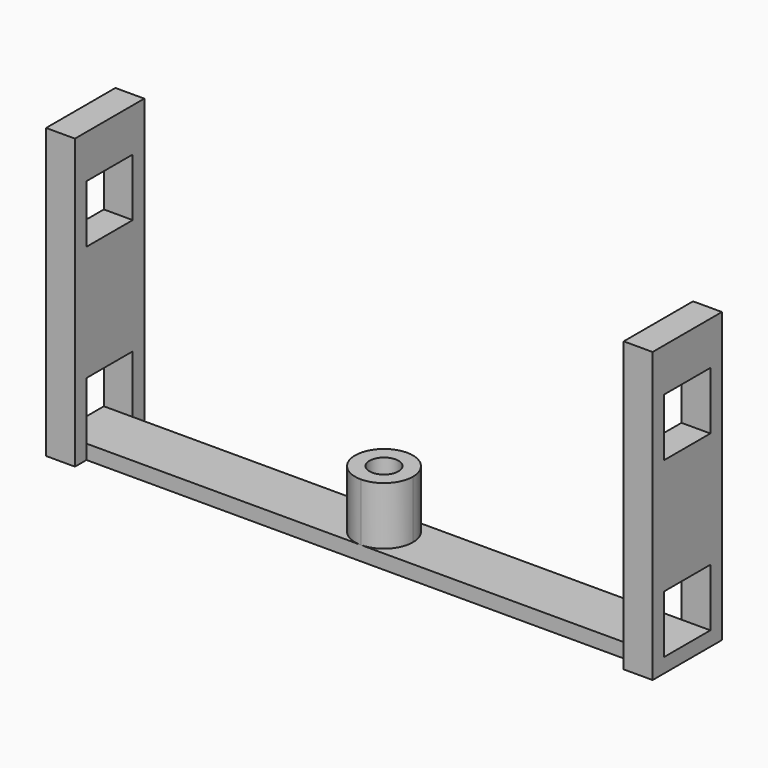
from build123d import *

# Parameters (mm, degrees)
F0_R     = 5
F2_DEPTH = 5
F3_DEPTH = 95
F1_W     = 20
F1_H     = 20
F4_DEPTH = 200
F5_DEPTH = 20


with BuildPart() as f2:
    # F0 (on Top) → F2 (new body)
    with BuildSketch(Plane.XY):
        Polygon((-95, -10), (-95, 10), (-95, 15), (-105, 15), (-105, -15), (-95, -15), align=None)
        with BuildLine():
            ThreePointArc((0, -10), (-10, 0), (0, 10))
            Line((0, 10), (-95, 10))
            Line((-95, 10), (-95, -10))
            Line((-95, -10), (0, -10))
        make_face()
        with BuildLine():
            ThreePointArc((0, 10), (7.071068, 7.071068), (10, 0))
            ThreePointArc((10, 0), (7.071068, -7.071068), (0, -10))
            Line((0, -10), (95, -10))
            Line((95, -10), (95, 10))
            Line((95, 10), (0, 10))
        make_face()
        Polygon((95, 15), (95, 10), (95, -10), (95, -15), (105, -15), (105, 15), align=None)
        with BuildLine():
            ThreePointArc((0, -10), (7.071068, -7.071068), (10, 0))
            ThreePointArc((10, 0), (7.071068, 7.071068), (0, 10))
            ThreePointArc((0, 10), (-10, 0), (0, -10))
        make_face()
        Circle(F0_R, mode=Mode.SUBTRACT)
        Circle(F0_R)
    extrude(amount=-F2_DEPTH)

    # F0 (on Top) → F3 (join)
    with BuildSketch(Plane.XY):
        Polygon((-95, -10), (-95, 10), (-95, 15), (-105, 15), (-105, -15), (-95, -15), align=None)
        Polygon((95, 15), (95, 10), (95, -10), (95, -15), (105, -15), (105, 15), align=None)
    extrude(amount=F3_DEPTH)

    # F1 (on Right) → F4 (cut, symmetric)
    with BuildSketch(Plane.YZ):
        with Locations((0, 10)):
            Rectangle(F1_W, F1_H)
        with Locations((0, 70)):
            Rectangle(F1_W, F1_H)
    extrude(amount=F4_DEPTH, both=True, mode=Mode.SUBTRACT)

    # F0 (on Top) → F5 (join)
    with BuildSketch(Plane.XY):
        with BuildLine():
            ThreePointArc((0, -10), (7.071068, -7.071068), (10, 0))
            ThreePointArc((10, 0), (7.071068, 7.071068), (0, 10))
            ThreePointArc((0, 10), (-10, 0), (0, -10))
        make_face()
        Circle(F0_R, mode=Mode.SUBTRACT)
    extrude(amount=F5_DEPTH)


solid = f2.part
